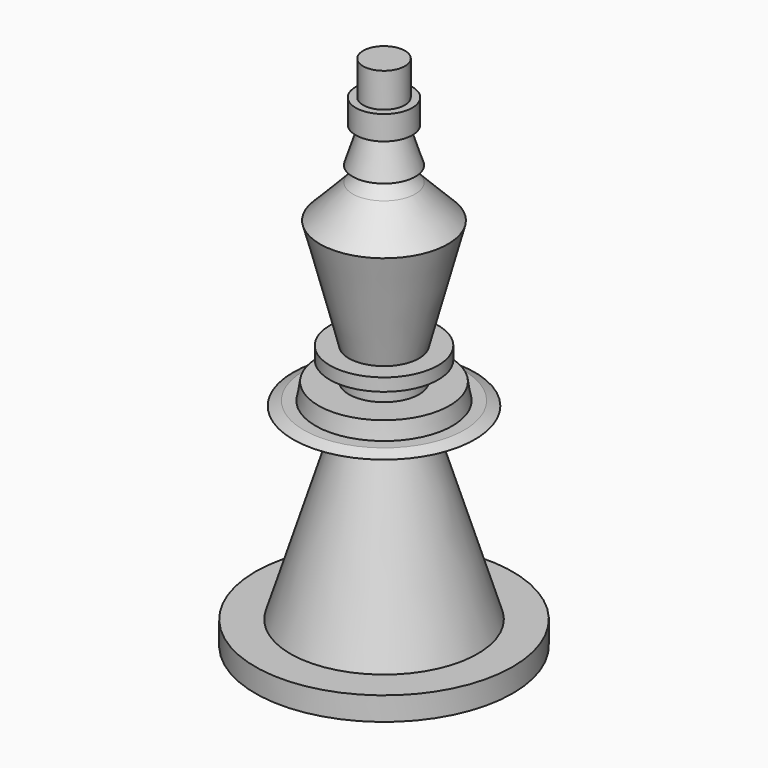
from build123d import *


with BuildPart() as f1:
    # F0 (on Front) → F1 (revolve)
    with BuildSketch(Plane.XZ):
        Polygon((-13.97, 0), (0, 0), (0, 56.123506), (-2.269576, 56.123506), (-2.269576, 52.40535), (-3.071587, 52.40535), (-3.071587, 49.78887), (-2.161447, 49.78887), (-3.400831, 45.933004), (-2.027877, 45.491698), (-3.400831, 44.280492), (-6.948096, 40.644105), (-3.81, 28.704829), (-5.875643, 28.704829), (-5.875643, 27.327734), (-3.81, 27.327734), (-3.81, 25.262092), (-7.115029, 25.262092), (-7.432631, 23.436826), (-8.702631, 23.436826), (-9.863172, 22.921031), (-3.81, 22.921031), (-10.16, 2.54), (-13.97, 2.54), align=None)
    revolve(axis=Axis((0, 0, 28.061753), (0, 0, 1)))


solid = f1.part
